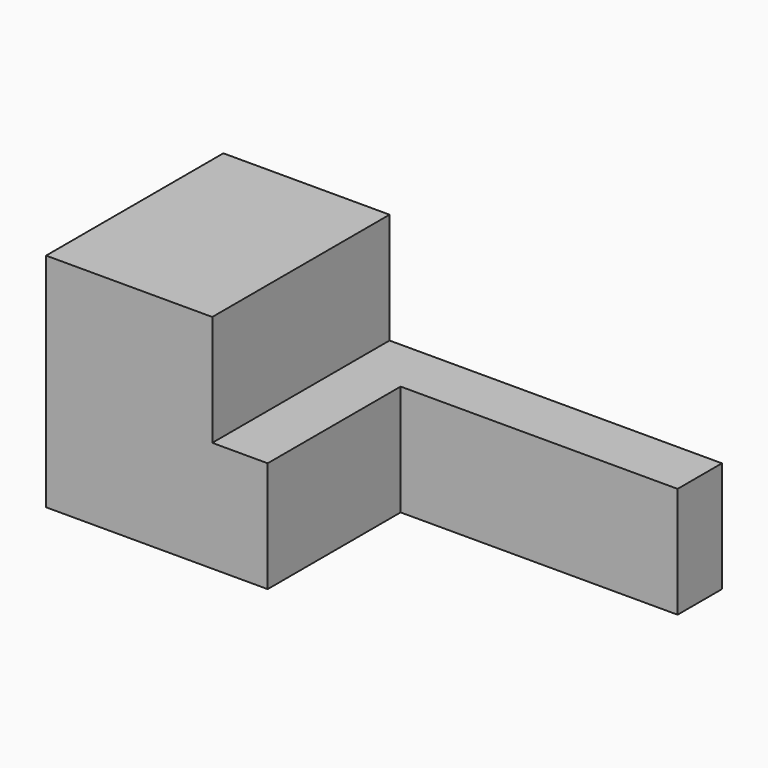
from build123d import *

# Parameters (mm, degrees)
F0_W     = 76.2
F0_H     = 50.8
F1_DEPTH = 101.6
F2_W     = 25.4
F2_H     = 50.8
F3_DEPTH = 127


with BuildPart() as f1:
    # F0 (on Front) → F1 (new body)
    with BuildSketch(Plane.XZ):
        with Locations((-2.621694, 38.84776)):
            Rectangle(F0_W, F0_H)
        Polygon((35.478306, 13.44776), (-40.721694, 13.44776), (-40.721694, -37.35224), (60.878306, -37.35224), (60.878306, 13.44776), align=None)
    extrude(amount=F1_DEPTH)

    # F2 (on face) → F3 (join)
    with BuildSketch(Plane.YZ.offset(60.878306)):
        with Locations((-12.7, -11.95224)):
            Rectangle(F2_W, F2_H)
    extrude(amount=F3_DEPTH)


solid = f1.part
